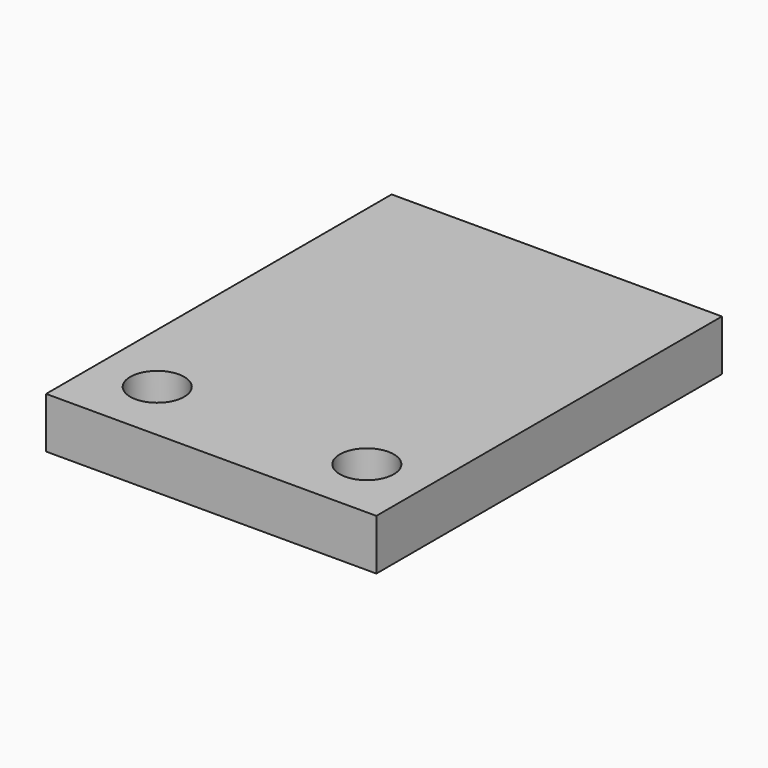
from build123d import *

# Parameters (mm, degrees)
F0_W     = 82.55
F0_H     = 107.95
F1_DEPTH = 12.7
F3_D     = 13.49248


with BuildPart() as f1:
    # F0 (on Top) → F1 (new body)
    with BuildSketch(Plane.XY):
        with Locations((11.846243368, -3.175)):
            Rectangle(F0_W, F0_H)
    extrude(amount=F1_DEPTH)

    # F3 (through all)
    with Locations(Plane.XY.offset(12.7)):
        with Locations((-14.347506632, -41.275), (38.039993368, -41.275)):
            Hole(F3_D / 2)


solid = f1.part
